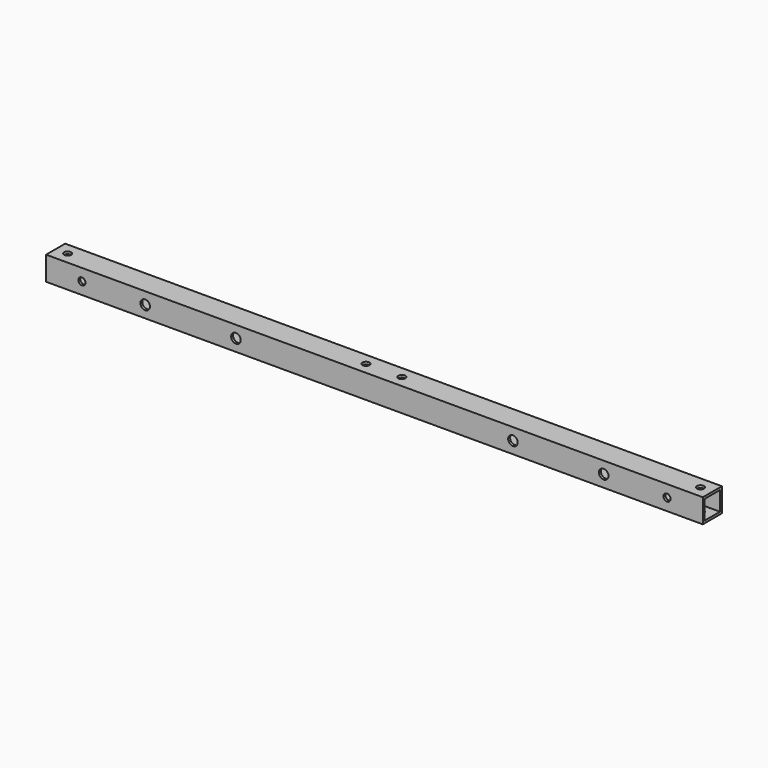
from build123d import *

# Parameters (mm, degrees)
F0_W     = 10
F0_H     = 10
F0_W_2   = 8
F0_H_2   = 8
F1_DEPTH = 275
F2_R     = 1.5
F3_DEPTH = 25
F4_R     = 2
F4_R_2   = 1.5
F5_DEPTH = 25


with BuildPart() as f1:
    # F0 (on Right) → F1 (new body)
    with BuildSketch(Plane.YZ):
        Rectangle(F0_W, F0_H)
        Rectangle(F0_W_2, F0_H_2, mode=Mode.SUBTRACT)
    extrude(amount=F1_DEPTH)

    # F2 (on face) → F3 (cut)
    with BuildSketch(Plane.XY.offset(5)):
        with Locations((130, 0)):
            Circle(F2_R)
        with Locations((5, 0)):
            Circle(F2_R)
        with Locations((145, 0)):
            Circle(F2_R)
        with Locations((270, 0)):
            Circle(F2_R)
    extrude(amount=-F3_DEPTH, mode=Mode.SUBTRACT)

    # F4 (on face) → F5 (cut)
    with BuildSketch(Plane(origin=(0, 5, 0), x_dir=(-1, 0, 0), z_dir=(0, 1, 0))):
        with Locations((-233.5, 0)):
            Circle(F4_R)
        with Locations((-195.5, 0)):
            Circle(F4_R)
        with Locations((-79.5, 0)):
            Circle(F4_R)
        with Locations((-41.5, 0)):
            Circle(F4_R)
        with Locations((-260, 0)):
            Circle(F4_R_2)
        with Locations((-15, 0)):
            Circle(F4_R_2)
    extrude(amount=-F5_DEPTH, mode=Mode.SUBTRACT)


solid = f1.part
